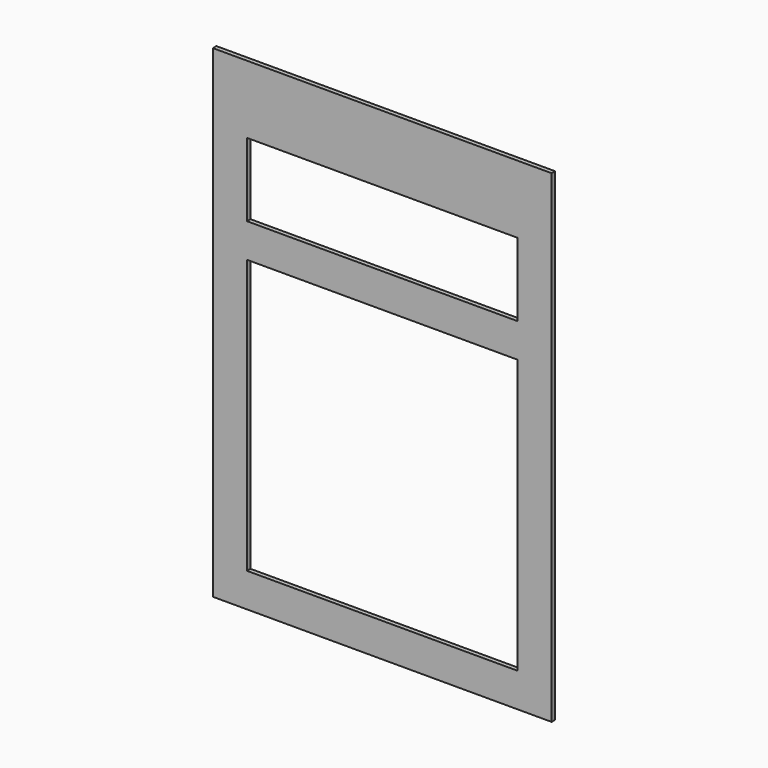
from build123d import *

# Parameters (mm, degrees)
F0_W     = 63.325
F0_H     = 90.31
F0_W_2   = 50.625042
F0_H_2   = 51.194
F1_DEPTH = 0.82


with BuildPart() as f1:
    # F0 (on Front) → F1 (new body)
    with BuildSketch(Plane.XZ):
        with Locations((31.6625, 45.155)):
            Rectangle(F0_W, F0_H)
        with Locations((31.662521, 31.947)):
            Rectangle(F0_W_2, F0_H_2, mode=Mode.SUBTRACT)
        Polygon((6.34999, 63.894056), (6.349968, 77.610057), (56.97501, 77.610057), (56.975032, 63.894056), align=None, mode=Mode.SUBTRACT)
    extrude(amount=F1_DEPTH)


solid = f1.part
